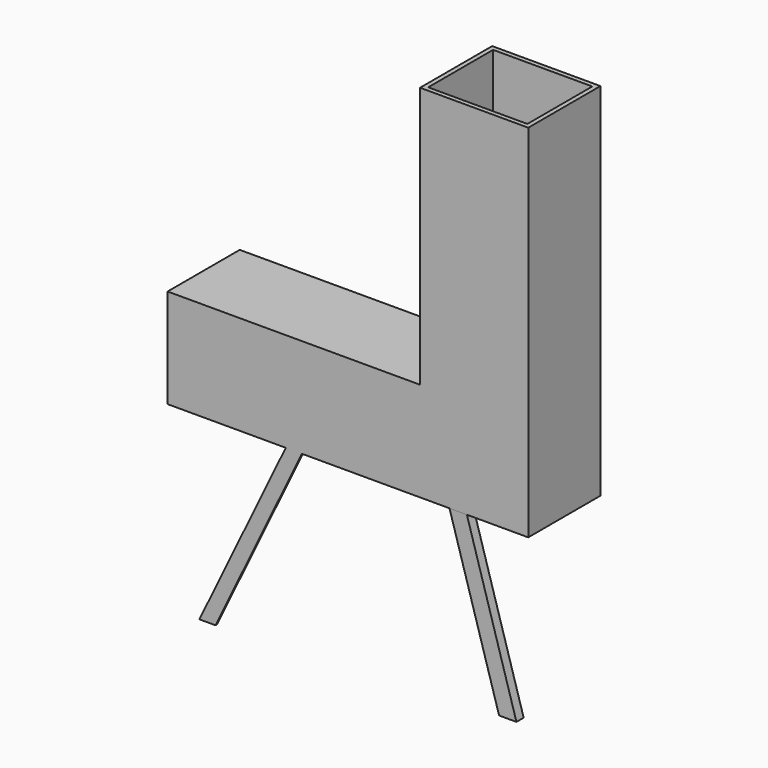
from build123d import *

# Parameters (mm, degrees)
F1_DEPTH  = 127
F2_T      = -12.7
F3_W      = 228.6
F3_H      = 254
F4_DEPTH  = 25.4
F8_DEPTH  = 25.4
F11_DEPTH = 38.1


with BuildPart() as f1:
    # F0 (on Front) → F1 (new body, symmetric)
    with BuildSketch(Plane.XZ):
        Polygon((-608.7934243917, -184.549812434), (-608.7934243917, -463.949812434), (407.2065756083, -463.949812434), (407.2065756083, 552.050187566), (102.4065756083, 552.050187566), (102.4065756083, -184.549812434), align=None)
    extrude(amount=F1_DEPTH, both=True)

    # F2
    f2_openings = [f1.faces().sort_by_distance(p)[0] for p in [
        (254.806576, 0, 552.050188),
    ]]
    offset(amount=F2_T, openings=f2_openings, kind=Kind.INTERSECTION)

    # F3 (on face) → F4 (cut)
    with BuildSketch(Plane(origin=(-608.7934243917, 0, 0), x_dir=(0, -1, 0), z_dir=(-1, 0, 0))):
        with Locations((0, -324.249812434)):
            Rectangle(F3_W, F3_H)
    extrude(amount=-F4_DEPTH, mode=Mode.SUBTRACT)

    # F7: sweep along a path in F5
    with BuildLine(Plane.XZ.offset(127)) as f7_path:
        Line((-244.6788847446, -463.949812434), (-487.969815731, -968.4772491455))
    # F6 (on face) → F7 (sweep)
    with BuildSketch(Plane(origin=(0, 0, -463.949812434), x_dir=(1, 0, 0), z_dir=(0, 0, -1))):
        with BuildLine():
            ThreePointArc((-275.9253751284, 127), (-253.1934243917, 104.2680492633), (-230.461473655, 127))
            Line((-230.461473655, 127), (-275.9253751284, 127))
        make_face()
    sweep(path=f7_path.line)


with BuildPart() as f8:
    # F5 (on face) → F8 (new body)
    with BuildSketch(Plane.XZ.offset(127)):
        Polygon((234.3254238367, -463.949812434), (185.3277683258, -463.949812434), (324.9278366566, -932.414829731), (373.9254921675, -932.414829731), align=None)
    extrude(amount=-F8_DEPTH)


with BuildPart() as f11:
    # F10 (on offset) → F11 (new body, symmetric)
    with BuildSketch(Plane.YZ.offset(204.0065756083)):
        Polygon((-68.0237669945, -463.949812434), (-127, -463.949812434), (-474.1689562798, -907.5912833214), (-415.1927232742, -907.5912833214), align=None)
    extrude(amount=F11_DEPTH, both=True)


solid = Compound([f1.part, f8.part])
